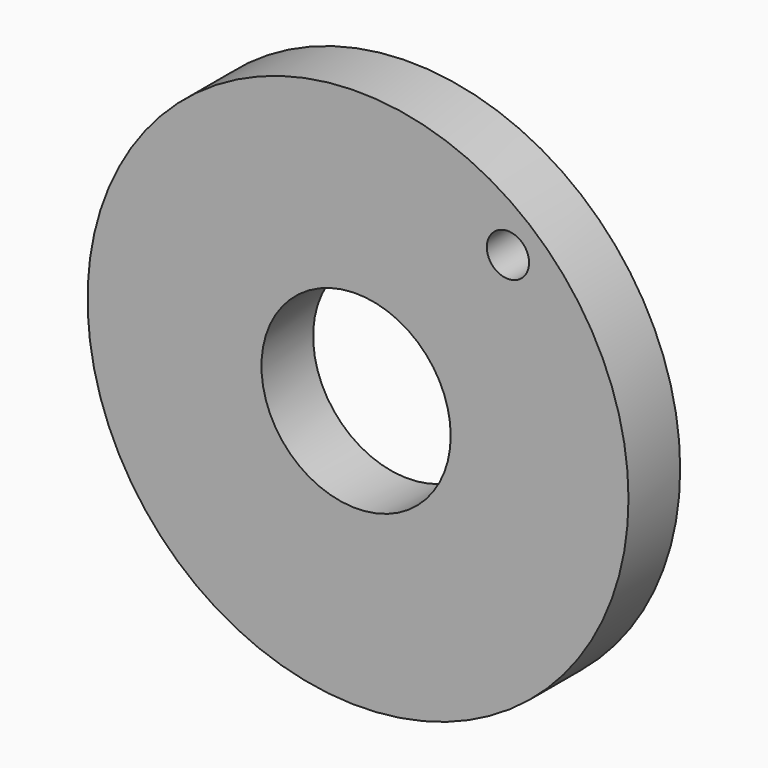
from build123d import *

# Parameters (mm, degrees)
F0_R     = 106.32546
F1_DEPTH = 25.4
F3_R     = 37.196049
F4_DEPTH = 25.401
F5_R     = 8.300114
F6_DEPTH = 25.4


with BuildPart() as f1:
    # F0 (on Front) → F1 (new body)
    with BuildSketch(Plane.XZ):
        with Locations((36.792137, 0)):
            Circle(F0_R)
    extrude(amount=F1_DEPTH)

    # F3 (on face) → F4 (cut, through all)
    with BuildSketch(Plane.XZ.offset(25.4)):
        with Locations((36.022916, -0.947487)):
            Circle(F3_R)
    extrude(amount=-F4_DEPTH, mode=Mode.SUBTRACT)

    # F5 (on face) → F6 (cut)
    with BuildSketch(Plane.XZ.offset(25.4)):
        with Locations((95.72994, 68.969317)):
            Circle(F5_R)
    extrude(amount=-F6_DEPTH, mode=Mode.SUBTRACT)


solid = f1.part
